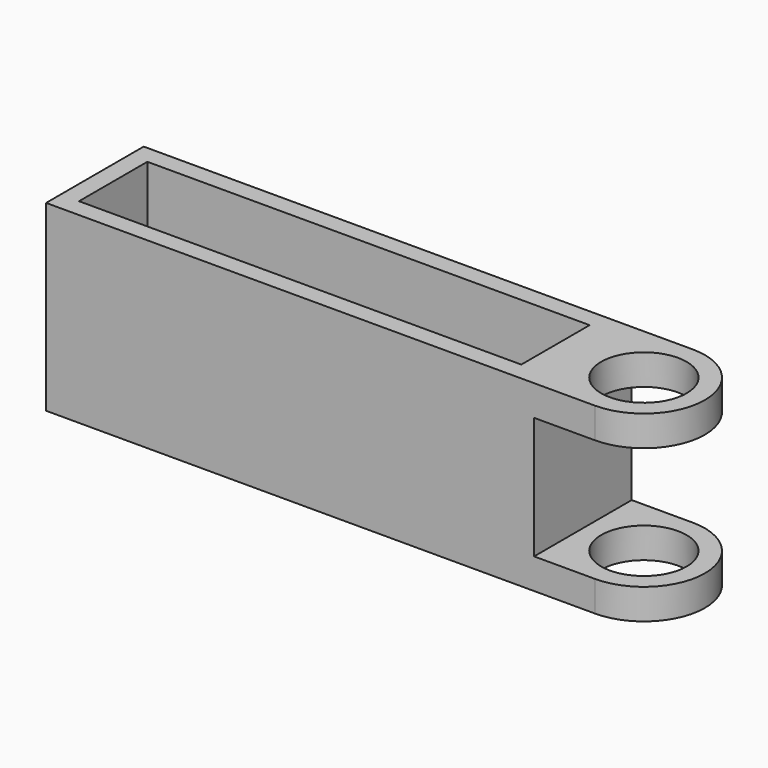
from build123d import *

# Parameters (mm, degrees)
F0_W     = 40
F0_H     = 10
F1_DEPTH = 5
F3_DEPTH = 2.5
F4_R     = 3.5
F5_DEPTH = 7.501
F6_W     = 36.25
F6_H     = 7
F7_DEPTH = 7.501


with BuildPart() as f1:
    # F0 (on Top) → F1 (new body)
    with BuildSketch(Plane.XY):
        with Locations((20, 5)):
            Rectangle(F0_W, F0_H)
    extrude(amount=F1_DEPTH)

    # F2 (on face) → F3 (join)
    with BuildSketch(Plane.XY.offset(5)):
        with BuildLine():
            Line((40, 0), (45, 0))
            ThreePointArc((45, 0), (50, 5), (45, 10))
            Line((45, 10), (40, 10))
            Line((40, 10), (0, 10))
            Line((0, 10), (0, 0))
            Line((0, 0), (40, 0))
        make_face()
    extrude(amount=F3_DEPTH)

    # F4 (on face) → F5 (cut, through all)
    with BuildSketch(Plane.XY.offset(7.5)):
        with Locations((45, 5)):
            Circle(F4_R)
    extrude(amount=-F5_DEPTH, mode=Mode.SUBTRACT)

    # F6 (on face) → F7 (cut, through all)
    with BuildSketch(Plane.XY.offset(7.5)):
        with Locations((19.625, 5)):
            Rectangle(F6_W, F6_H)
    extrude(amount=-F7_DEPTH, mode=Mode.SUBTRACT)

    # F8: F1 across plane


with BuildPart() as f1_1:
    add(f1.part)
    add(f1.part.mirror(Plane.XY))


solid = f1_1.part
